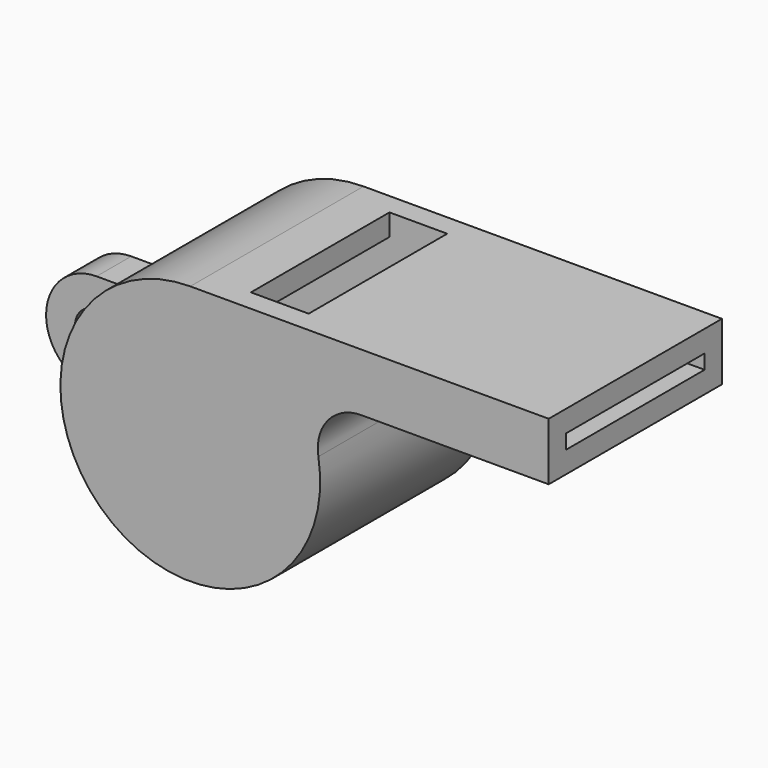
from build123d import *

# Parameters (mm, degrees)
F1_DEPTH = 7.5
F2_T     = -1.5
F3_W     = 4
F3_H     = 12
F4_DEPTH = 1.5
F5_R     = 1.5
F6_DEPTH = 1.5


with BuildPart() as f1:
    # F0 (on Front) → F1 (new body, symmetric)
    with BuildSketch(Plane.XZ):
        with BuildLine():
            Line((24.83216, 9), (0, 9))
            ThreePointArc((0, 9), (-5.809475, -6.873864), (8.87412, 1.5))
            ThreePointArc((8.87412, 1.5), (9.540872, 3.936492), (11.83216, 5))
            Line((11.83216, 5), (24.83216, 5))
            Line((24.83216, 5), (24.83216, 9))
        make_face()
    extrude(amount=F1_DEPTH, both=True)

    # F2
    f2_openings = [f1.faces().sort_by_distance(p)[0] for p in [
        (24.83216, 0, 7),
    ]]
    offset(amount=F2_T, openings=f2_openings)

    # F3 (on face) → F4 (cut)
    with BuildSketch(Plane.XY.offset(9)):
        with Locations((5, 0)):
            Rectangle(F3_W, F3_H)
    extrude(amount=-F4_DEPTH, mode=Mode.SUBTRACT)

    # F5 (on Front) → F6 (join, symmetric)
    with BuildSketch(Plane.XZ):
        with BuildLine():
            Line((-8.291562, 3.5), (-11.291562, 3.5))
            ThreePointArc((-11.291562, 3.5), (-14.791562, 0), (-11.291562, -3.5))
            Line((-11.291562, -3.5), (-8.291562, -3.5))
            Line((-8.291562, -3.5), (-8.291562, 3.5))
        make_face()
        with Locations((-11.291562, 0)):
            Circle(F5_R, mode=Mode.SUBTRACT)
    extrude(amount=F6_DEPTH, both=True)


with BuildPart() as f8:
    # F7 (on Front) → F8 (revolve)
    with BuildSketch(Plane.XZ):
        with BuildLine():
            ThreePointArc((0, -7.5), (5, -2.5), (0, 2.5))
            Line((0, 2.5), (0, -7.5))
        make_face()
    revolve(axis=Axis((0, 0, -2.5), (0, 0, -1)))


solid = Compound([f1.part, f8.part])
